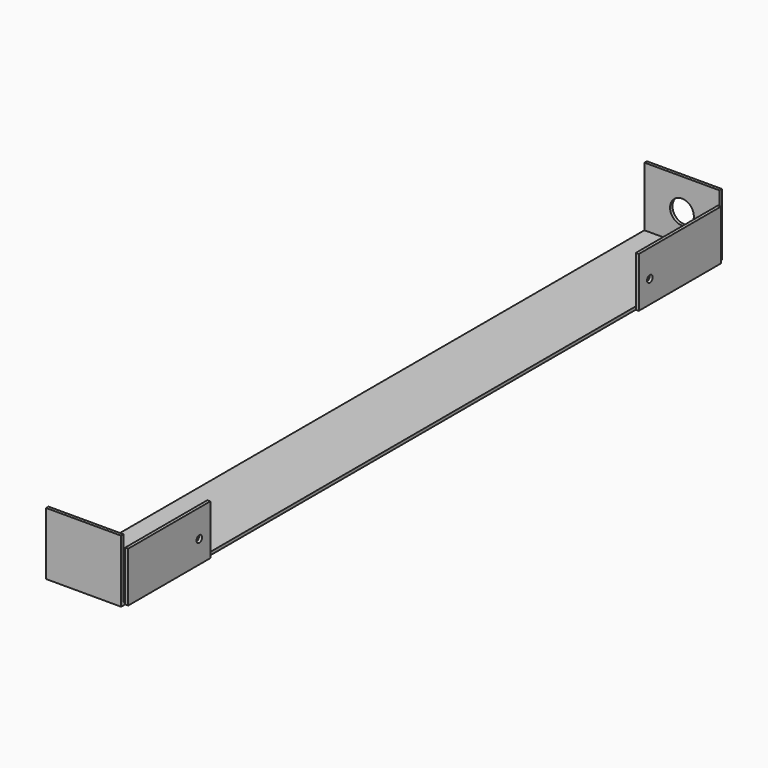
from build123d import *

# Parameters (mm, degrees)
F1_DEPTH = 15
F3_W     = 41
F3_H     = 20
F4_DEPTH = 1.2
F2_R     = 4.75
F5_DEPTH = 1.21
F6_R     = 1.385
F7_DEPTH = 1.2


with BuildPart() as f1:
    # F0 (on Right) → F1 (new body, symmetric)
    with BuildSketch(Plane.YZ):
        Polygon((-148.79, 12.5), (-150, 12.5), (-150, -12.5), (150, -12.5), (150, 12.5), (148.79, 12.5), (148.79, -11.29), (0, -11.29), (-148.79, -11.29), align=None)
    extrude(amount=F1_DEPTH, both=True)

    # F3 (on face) → F4 (join)
    with BuildSketch(Plane.YZ.offset(15)):
        with Locations((-127.5, -2.5)):
            Rectangle(F3_W, F3_H)
        with Locations((127.5, -2.5)):
            Rectangle(F3_W, F3_H)
    extrude(amount=F4_DEPTH)

    # F2 (on face) → F5 (cut, through all)
    with BuildSketch(Plane(origin=(0, 150, 0), x_dir=(-1, 0, 0), z_dir=(0, 1, 0))):
        Circle(F2_R)
    extrude(amount=-F5_DEPTH, mode=Mode.SUBTRACT)

    # F6 (on face) → F7 (cut, through all)
    with BuildSketch(Plane.YZ.offset(16.2)):
        with Locations((-112.5, -3.5)):
            Circle(F6_R)
        with Locations((112.5, -3.5)):
            Circle(F6_R)
    extrude(amount=-F7_DEPTH, mode=Mode.SUBTRACT)


solid = f1.part
